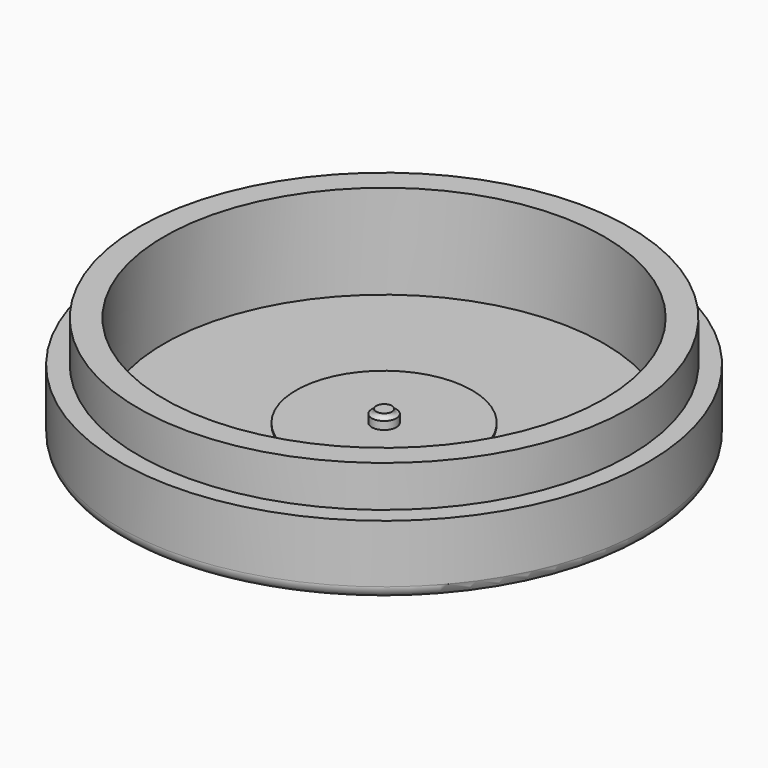
from build123d import *

# Parameters (mm, degrees)
CYLINDER012_R     = 0.45
CYLINDER012_DEPTH = 0.8
CYLINDER003_R     = 0.7
CYLINDER003_DEPTH = 0.55
FILLET003_R       = 0.24
CYLINDER013_R     = 5
CYLINDER013_DEPTH = 0.1
CYLINDER010_R     = 12.5
CYLINDER010_DEPTH = 10
CYLINDER011_R     = 13.95
CYLINDER011_DEPTH = 2.35
CYLINDER009_R     = 14
CYLINDER009_DEPTH = 3
CYLINDER004_R     = 0.4
CYLINDER004_DEPTH = 2
CYLINDER016_R     = 0.4
CYLINDER016_DEPTH = 2
CYLINDER014_R     = 0.41
CYLINDER014_DEPTH = 0.8
CYLINDER015_R     = 0.7
CYLINDER015_DEPTH = 0.55
FILLET004_R       = 0.24
CYLINDER017_R     = 5
CYLINDER017_DEPTH = 0.1
CYLINDER008_R     = 16
CYLINDER008_DEPTH = 10
CYLINDER007_R     = 14
CYLINDER007_DEPTH = 7
CYLINDER006_R     = 14
CYLINDER006_DEPTH = 1
CYLINDER005_R     = 0.4
CYLINDER005_DEPTH = 1
CYLINDER001_R     = 12.6
CYLINDER001_DEPTH = 8
CYLINDER_R        = 15
CYLINDER_DEPTH    = 8
CYLINDER002_R     = 15
CYLINDER002_DEPTH = 1
FILLET_R          = 0.7
FILLET001_R       = 0.7
FILLET002_R       = 0.8


with BuildPart() as cylinder012:
    # Cylinder012 → Cylinder012 (new body)
    with BuildSketch(Plane.XY.offset(1)):
        Circle(CYLINDER012_R)
    extrude(amount=CYLINDER012_DEPTH)


with BuildPart() as fillet003:
    # Cylinder003 → Cylinder003 (new body)
    with BuildSketch(Plane.XY.offset(1)):
        Circle(CYLINDER003_R)
    extrude(amount=CYLINDER003_DEPTH)

    # Fusion003: union Cylinder012
    add(cylinder012.part)

    # Fillet003
    fillet003_edges = [fillet003.edges().sort_by_distance(p)[0] for p in [
        (-0.45, 0, 1.55),
    ]]
    fillet(fillet003_edges, radius=FILLET003_R)


with BuildPart() as cylinder013:
    # Cylinder013 → Cylinder013 (new body)
    with BuildSketch(Plane.XY.offset(1)):
        Circle(CYLINDER013_R)
    extrude(amount=CYLINDER013_DEPTH)


with BuildPart() as cylinder010:
    # Cylinder010 → Cylinder010 (new body)
    with BuildSketch(Plane.XY):
        Circle(CYLINDER010_R)
    extrude(amount=CYLINDER010_DEPTH)


with BuildPart() as cylinder011:
    # Cylinder011 → Cylinder011 (new body)
    with BuildSketch(Plane.XY.offset(4)):
        Circle(CYLINDER011_R)
    extrude(amount=CYLINDER011_DEPTH)


with BuildPart() as cut006:
    # Cylinder009 → Cylinder009 (new body)
    with BuildSketch(Plane.XY.offset(1)):
        Circle(CYLINDER009_R)
    extrude(amount=CYLINDER009_DEPTH)

    # Fusion002: union Cylinder011
    add(cylinder011.part)

    # Cut006: cut Cylinder010
    add(cylinder010.part, mode=Mode.SUBTRACT)


with BuildPart() as cylinder004:
    # Cylinder004 → Cylinder004 (new body)
    with BuildSketch(Plane.XY.offset(1)):
        Circle(CYLINDER004_R)
    extrude(amount=CYLINDER004_DEPTH)


with BuildPart() as cylinder016:
    # Cylinder016 → Cylinder016 (new body)
    with BuildSketch(Plane.XY.offset(1)):
        Circle(CYLINDER016_R)
    extrude(amount=CYLINDER016_DEPTH)


with BuildPart() as cylinder014:
    # Cylinder014 → Cylinder014 (new body)
    with BuildSketch(Plane.XY.offset(1)):
        Circle(CYLINDER014_R)
    extrude(amount=CYLINDER014_DEPTH)


with BuildPart() as fillet004:
    # Cylinder015 → Cylinder015 (new body)
    with BuildSketch(Plane.XY.offset(1)):
        Circle(CYLINDER015_R)
    extrude(amount=CYLINDER015_DEPTH)

    # Fusion001: union Cylinder014
    add(cylinder014.part)

    # Fillet004
    fillet004_edges = [fillet004.edges().sort_by_distance(p)[0] for p in [
        (-0.41, 0, 1.55),
    ]]
    fillet(fillet004_edges, radius=FILLET004_R)


with BuildPart() as cut010:
    # Cylinder017 → Cylinder017 (new body)
    with BuildSketch(Plane.XY.offset(1)):
        Circle(CYLINDER017_R)
    extrude(amount=CYLINDER017_DEPTH)

    # Fusion004: union Fillet004
    add(fillet004.part)

    # Cut009: cut Cylinder016
    add(cylinder016.part, mode=Mode.SUBTRACT)

    # Cut010: cut Cylinder004
    add(cylinder004.part, mode=Mode.SUBTRACT)


with BuildPart() as cylinder008:
    # Cylinder008 → Cylinder008 (new body)
    with BuildSketch(Plane.XY.offset(4)):
        Circle(CYLINDER008_R)
    extrude(amount=CYLINDER008_DEPTH)


with BuildPart() as cylinder007:
    # Cylinder007 → Cylinder007 (new body)
    with BuildSketch(Plane.XY.offset(1)):
        Circle(CYLINDER007_R)
    extrude(amount=CYLINDER007_DEPTH)


with BuildPart() as cylinder006:
    # Cylinder006 → Cylinder006 (new body)
    with BuildSketch(Plane.XY.offset(7)):
        Circle(CYLINDER006_R)
    extrude(amount=CYLINDER006_DEPTH)


with BuildPart() as cylinder005:
    # Cylinder005 → Cylinder005 (new body)
    with BuildSketch(Plane.XY):
        Circle(CYLINDER005_R)
    extrude(amount=CYLINDER005_DEPTH)


with BuildPart() as cylinder001:
    # Cylinder001 → Cylinder001 (new body)
    with BuildSketch(Plane.XY):
        Circle(CYLINDER001_R)
    extrude(amount=CYLINDER001_DEPTH)


with BuildPart() as cut:
    # Cylinder → Cylinder (new body)
    with BuildSketch(Plane.XY):
        Circle(CYLINDER_R)
    extrude(amount=CYLINDER_DEPTH)

    # Cut: cut Cylinder001
    add(cylinder001.part, mode=Mode.SUBTRACT)


with BuildPart() as fusion005:
    # Cylinder002 → Cylinder002 (new body)
    with BuildSketch(Plane.XY):
        Circle(CYLINDER002_R)
    extrude(amount=CYLINDER002_DEPTH)

    # Fusion: union Cut
    add(cut.part)

    # Cut001: cut Cylinder005
    add(cylinder005.part, mode=Mode.SUBTRACT)

    # Cut003: cut Cylinder006
    add(cylinder006.part, mode=Mode.SUBTRACT)

    # Fillet
    fillet_edges = [fusion005.edges().sort_by_distance(p)[0] for p in [
        (-15, 0, 8),
    ]]
    fillet(fillet_edges, radius=FILLET_R)

    # Fillet001
    fillet001_edges = [fusion005.edges().sort_by_distance(p)[0] for p in [
        (-15, 0, 0),
    ]]
    fillet(fillet001_edges, radius=FILLET001_R)

    # Fillet002
    fillet002_edges = [fusion005.edges().sort_by_distance(p)[0] for p in [
        (-0.4, 0, 0),
    ]]
    fillet(fillet002_edges, radius=FILLET002_R)

    # Cut004: cut Cylinder007
    add(cylinder007.part, mode=Mode.SUBTRACT)

    # Cut008: cut Cylinder008
    add(cylinder008.part, mode=Mode.SUBTRACT)

    # Fusion005: union Cut006, Cut010
    add(cut006.part)
    add(cut010.part)


solid = Compound([fillet003.part, cylinder013.part, fusion005.part])
